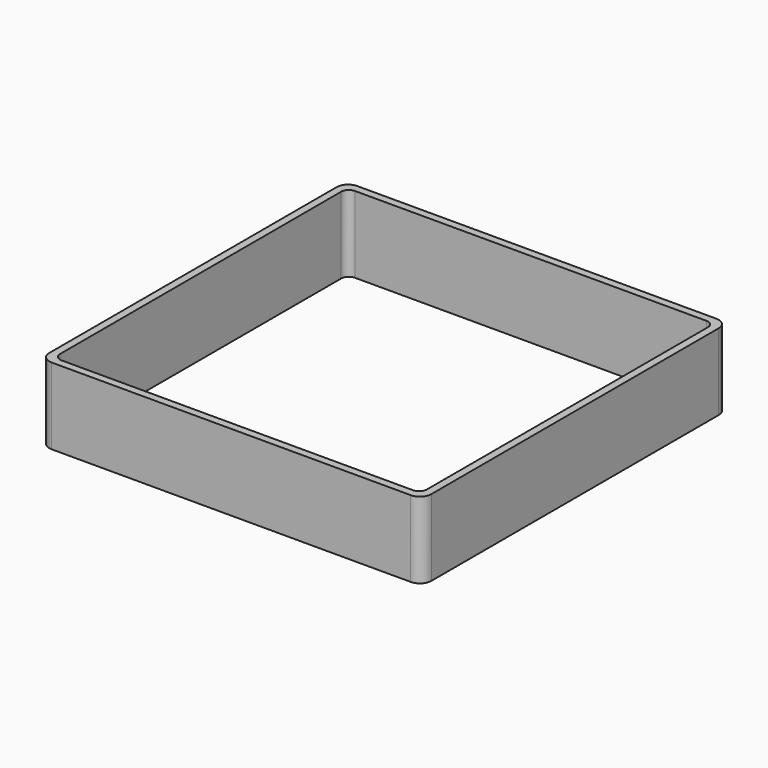
from build123d import *

# Parameters (mm, degrees)
EXTRUDE_DEPTH = 50


with BuildPart() as part:
    # Sketch → Extrude (new body)
    with BuildSketch(Plane.XY):
        with BuildLine():
            Line((-117.5, 125), (117.5, 125))
            ThreePointArc((125, 117.5), (122.803301, 122.803301), (117.5, 125))
            Line((125, 117.5), (125, -117.5))
            ThreePointArc((117.5, -125), (122.803301, -122.803301), (125, -117.5))
            Line((117.5, -125), (-117.5, -125))
            ThreePointArc((-125, -117.5), (-122.803301, -122.803301), (-117.5, -125))
            Line((-125, -117.5), (-125, 117.5))
            ThreePointArc((-117.5, 125), (-122.803301, 122.803301), (-125, 117.5))
        make_face()
        with BuildLine():
            Line((-115, 120), (115, 120))
            ThreePointArc((120, 115), (118.535534, 118.535534), (115, 120))
            Line((120, 115), (120, -115))
            ThreePointArc((115, -120), (118.535534, -118.535534), (120, -115))
            Line((115, -120), (-115, -120))
            ThreePointArc((-120, -115), (-118.535534, -118.535534), (-115, -120))
            Line((-120, -115), (-120, 115))
            ThreePointArc((-115, 120), (-118.535534, 118.535534), (-120, 115))
        make_face(mode=Mode.SUBTRACT)
    extrude(amount=EXTRUDE_DEPTH)


solid = part.part
